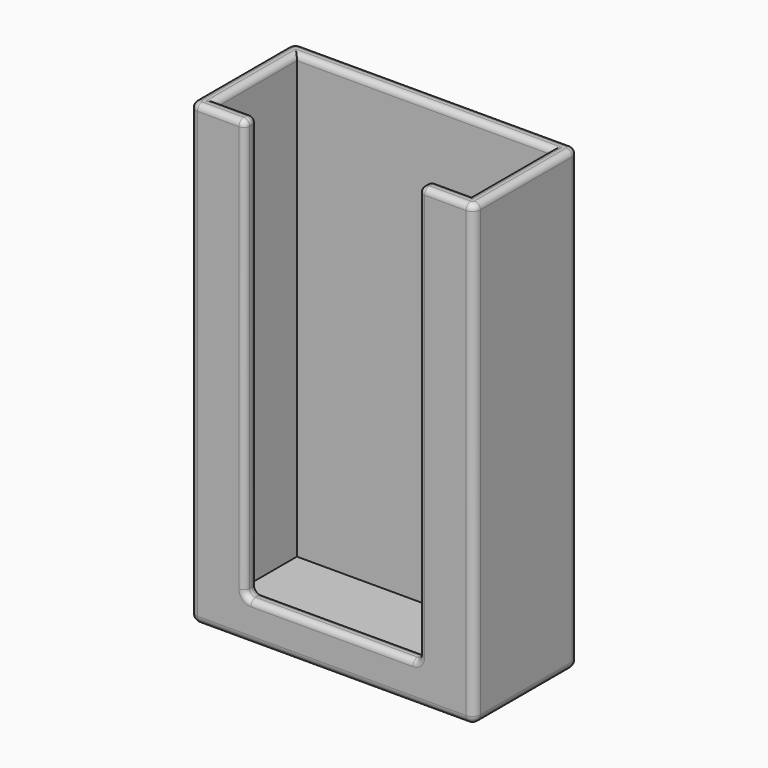
from build123d import *

# Parameters (mm, degrees)
SKETCH_W        = 36
SKETCH_H        = 58
PAD_DEPTH       = 16.5
SKETCH001_W     = 22
SKETCH001_H     = 53
POCKET_DEPTH    = 5
SKETCH002_W     = 32.2
SKETCH002_H     = 12.7
POCKET001_DEPTH = 56
FILLET_R        = 1
FILLET001_R     = 0.75
FILLET002_R     = 0.75


with BuildPart() as part:
    # Sketch → Pad (new body)
    with BuildSketch(Plane.XZ):
        with Locations((18, 29)):
            Rectangle(SKETCH_W, SKETCH_H)
    extrude(amount=PAD_DEPTH)

    # Sketch001 (on Face6 of Pad) → Pocket (cut)
    with BuildSketch(Plane.XZ.offset(16.5)):
        with Locations((18, 31.5)):
            Rectangle(SKETCH001_W, SKETCH001_H)
    extrude(amount=-POCKET_DEPTH, mode=Mode.SUBTRACT)

    # Sketch002 (on Face6 of Pocket) → Pocket001 (cut)
    with BuildSketch(Plane(origin=(0, 0, 58), x_dir=(-1, 0, 0), z_dir=(0, 0, 1))):
        with Locations((-18, 8.25)):
            Rectangle(SKETCH002_W, SKETCH002_H)
    extrude(amount=-POCKET001_DEPTH, mode=Mode.SUBTRACT)

    # Fillet
    fillet_edges = [part.edges().sort_by_distance(p)[0] for p in [
        (36, -16.5, 29),
        (36, 0, 29),
        (36, -8.25, 0),
        (18, -16.5, 0),
        (0, -16.5, 29),
        (0, 0, 29),
        (0, -8.25, 0),
        (18, 0, 0),
    ]]
    fillet(fillet_edges, radius=FILLET_R)

    # Fillet001
    fillet001_edges = [part.edges().sort_by_distance(p)[0] for p in [
        (18, -16.5, 5),
        (7, -15.55, 5),
        (29, -16.5, 31.5),
        (29, -15.55, 5),
        (7, -14.6, 31.5),
        (7, -16.5, 31.5),
        (29, -14.6, 31.5),
        (18, -14.6, 5),
    ]]
    fillet(fillet001_edges, radius=FILLET001_R)

    # Fillet002
    fillet002_edges = [part.edges().sort_by_distance(p)[0] for p in [
        (32.375, -16.5, 58),
        (1.9, -8.25, 58),
        (0.292893, -0.292893, 58),
        (34.1, -8.25, 58),
        (35.707107, -0.292893, 58),
        (18, -1.9, 58),
        (31.925, -14.6, 58),
        (35.707107, -16.207107, 58),
        (29.21967, -14.81967, 58),
        (6.68934, -16.5, 4.68934),
        (29.21967, -16.28033, 58),
        (6.78033, -14.81967, 58),
        (18, 0, 58),
        (0, -8.25, 58),
        (3.625, -16.5, 58),
        (36, -8.25, 58),
    ]]
    fillet(fillet002_edges, radius=FILLET002_R)


solid = part.part
